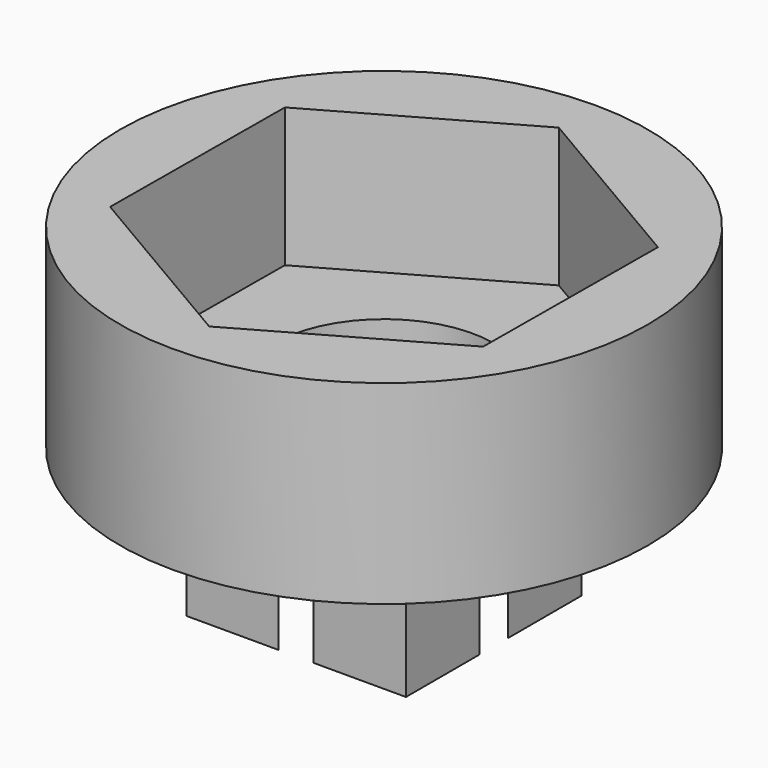
from build123d import *

# Parameters (mm, degrees)
F0_R     = 9.5
F1_DEPTH = 7
F3_DEPTH = 5
F4_W     = 7.9
F4_H     = 7.9
F5_DEPTH = 5
F6_R     = 4
F7_DEPTH = 7.001


with BuildPart() as f1:
    # F0 (on Top) → F1 (new body)
    with BuildSketch(Plane.XY):
        Circle(F0_R)
    extrude(amount=F1_DEPTH)

    # F2 (on face) → F3 (cut)
    with BuildSketch(Plane.XY.offset(7)):
        Polygon((-0.054944, -7.794035), (6.72236, -3.944601), (6.777304, 3.849434), (0.054944, 7.794035), (-6.72236, 3.944601), (-6.777304, -3.849434), align=None)
    extrude(amount=-F3_DEPTH, mode=Mode.SUBTRACT)

    # F4 (on face) → F5 (join)
    with BuildSketch(Plane(origin=(0, 0, 0), x_dir=(1, 0, 0), z_dir=(0, 0, -1))):
        Rectangle(F4_W, F4_H)
    extrude(amount=F5_DEPTH)

    # F6 (on face) → F7 (cut, through all)
    with BuildSketch(Plane.XY.offset(2)):
        Circle(F6_R)
    extrude(amount=-F7_DEPTH, mode=Mode.SUBTRACT)


solid = f1.part
